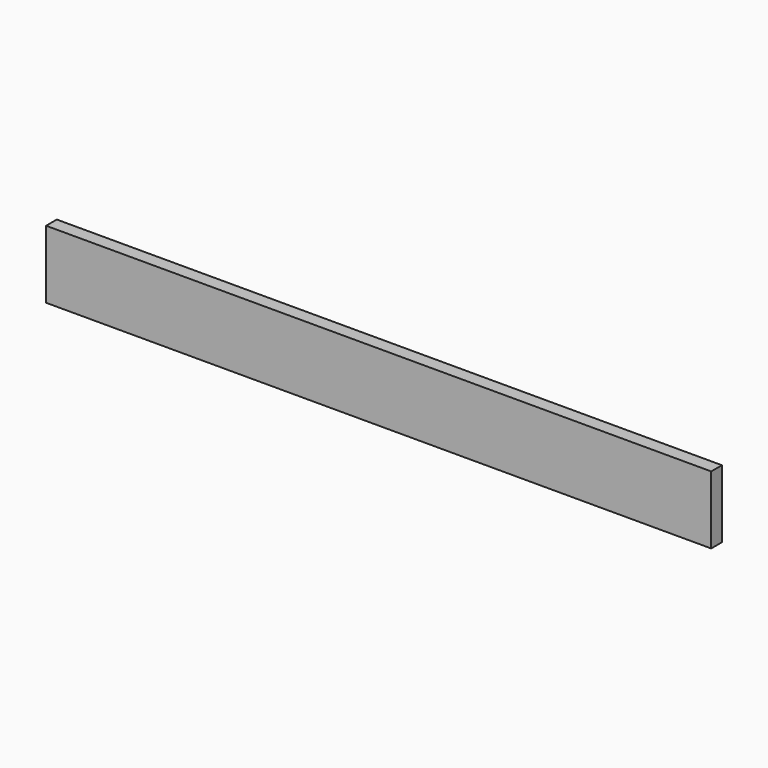
from build123d import *

# Parameters (mm, degrees)
F0_W     = 7.2391442955
F0_H     = 22.994980216
F1_DEPTH = 1500
F2_DEPTH = 130
F3_DEPTH = 23


with BuildPart() as f1:
    # F0 (on Right) → F1 (new body)
    with BuildSketch(Plane.YZ):
        with Locations((-62.7580676228, -11.497490108)):
            Rectangle(F0_W, F0_H)
    extrude(amount=F1_DEPTH)

    # F2 (add): a face of the model
    f2_faces = [f1.faces().sort_by_distance(p)[0] for p in [
        (750, -62.7580676228, -22.994980216),
    ]]
    extrude(f2_faces, amount=F2_DEPTH)

    # F3 (add): a face of the model
    f3_faces = [f1.faces().sort_by_distance(p)[0] for p in [
        (750, -66.3776397705, -76.497490108),
    ]]
    extrude(f3_faces, amount=F3_DEPTH)


solid = f1.part
